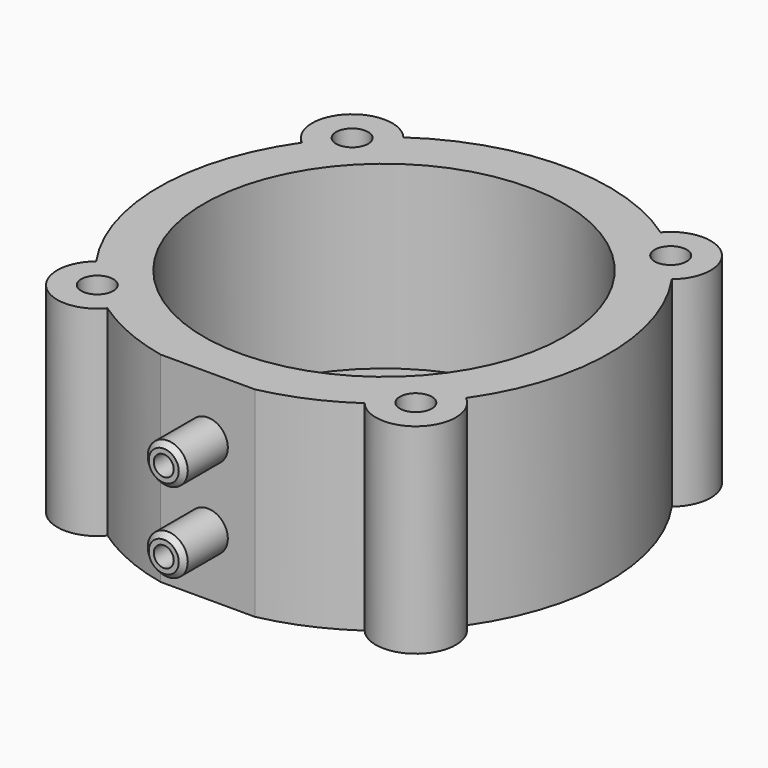
from build123d import *

# Parameters (mm, degrees)
F1_DEPTH  = 20
F2_R      = 1.6
F3_DEPTH  = 20.001
F4_R      = 18
F5_DEPTH  = 18
F6_R      = 2
F7_DEPTH  = 5.5
F9_R      = 1
F10_DEPTH = 25
F11_R     = 1
F12_DEPTH = 25
F13_SIZE  = 0.5


with BuildPart() as f1:
    # F0 (on Top) → F1 (new body)
    with BuildSketch(Plane.XY):
        with BuildLine():
            ThreePointArc((18.475718, 12.841256), (18.73833, 18.73833), (12.841256, 18.475718))
            ThreePointArc((12.841256, 18.475718), (0, 22.5), (-12.841256, 18.475718))
            ThreePointArc((-12.841256, 18.475718), (-18.73833, 18.73833), (-18.475718, 12.841256))
            ThreePointArc((-18.475718, 12.841256), (-22.5, 0), (-18.475718, -12.841256))
            ThreePointArc((-18.475718, -12.841256), (-18.73833, -18.73833), (-12.841256, -18.475718))
            ThreePointArc((-12.841256, -18.475718), (-8.954225, -20.641508), (-4.716991, -22))
            Line((-4.716991, -22), (4.716991, -22))
            ThreePointArc((4.716991, -22), (8.954225, -20.641508), (12.841256, -18.475718))
            ThreePointArc((12.841256, -18.475718), (18.73833, -18.73833), (18.475718, -12.841256))
            ThreePointArc((18.475718, -12.841256), (22.5, 0), (18.475718, 12.841256))
        make_face()
    extrude(amount=F1_DEPTH)

    # F2 (on face) → F3 (cut, through all)
    with BuildSketch(Plane.XY.offset(20)):
        with Locations((-15.909903, 15.909903)):
            Circle(F2_R)
        with Locations((15.909903, 15.909903)):
            Circle(F2_R)
        with Locations((15.909903, -15.909903)):
            Circle(F2_R)
        with Locations((-15.909903, -15.909903)):
            Circle(F2_R)
    extrude(amount=-F3_DEPTH, mode=Mode.SUBTRACT)

    # F4 (on face) → F5 (cut)
    with BuildSketch(Plane.XY.offset(20)):
        Circle(F4_R)
    extrude(amount=-F5_DEPTH, mode=Mode.SUBTRACT)

    # F6 (on face) → F7 (join)
    with BuildSketch(Plane.XZ.offset(22)):
        with Locations((0, 14)):
            Circle(F6_R)
        with Locations((0, 6)):
            Circle(F6_R)
    extrude(amount=F7_DEPTH)

    # F9 (on face) → F10 (cut)
    with BuildSketch(Plane.XZ.offset(27.5)):
        with Locations((0, 6)):
            Circle(F9_R)
    extrude(amount=-F10_DEPTH, mode=Mode.SUBTRACT)

    # F11 (on face) → F12 (cut)
    with BuildSketch(Plane.XZ.offset(27.5)):
        with Locations((0, 14)):
            Circle(F11_R)
    extrude(amount=-F12_DEPTH, mode=Mode.SUBTRACT)

    # F13
    f13_edges = [f1.edges().sort_by_distance(p)[0] for p in [
        (-2, -27.5, 14),
        (-2, -27.5, 6),
    ]]
    chamfer(f13_edges, length=F13_SIZE)


solid = f1.part
